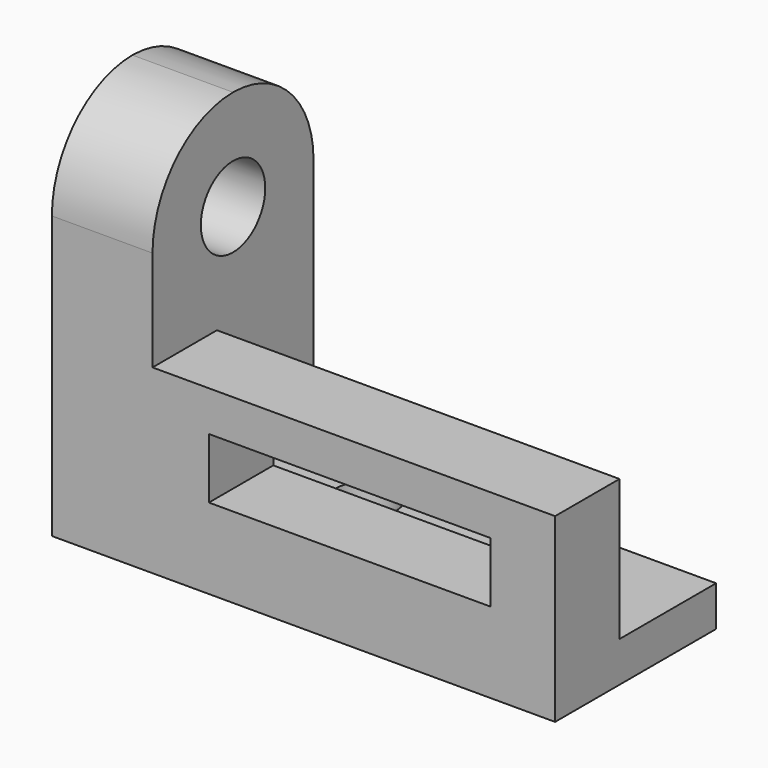
from build123d import *

# Parameters (mm, degrees)
F0_R     = 10
F1_DEPTH = 25
F3_DEPTH = 100
F4_W     = 70
F4_H     = 15
F5_DEPTH = 20
F6_R     = 7.5
F7_DEPTH = 10


with BuildPart() as f1:
    # F0 (on Right) → F1 (new body)
    with BuildSketch(Plane.YZ):
        with BuildLine():
            Line((0, 70), (0, 0))
            Line((0, 0), (50, 0))
            Line((50, 0), (50, 70))
            ThreePointArc((50, 70), (42.67767, 87.67767), (25, 95))
            ThreePointArc((25, 95), (7.32233, 87.67767), (0, 70))
        make_face()
        with Locations((25, 70)):
            Circle(F0_R, mode=Mode.SUBTRACT)
    extrude(amount=F1_DEPTH)

    # F2 (on face) → F3 (join)
    with BuildSketch(Plane.YZ.offset(25)):
        Polygon((0, 45), (0, 0), (50, 0), (50, 10), (20, 10), (20, 45), align=None)
    extrude(amount=F3_DEPTH)

    # F4 (on face) → F5 (cut)
    with BuildSketch(Plane(origin=(0, 20, 0), x_dir=(-1, 0, 0), z_dir=(0, 1, 0))):
        with Locations((-74, 27.5)):
            Rectangle(F4_W, F4_H)
    extrude(amount=-F5_DEPTH, mode=Mode.SUBTRACT)

    # F6 (on face) → F7 (cut)
    with BuildSketch(Plane.XY.offset(10)):
        with Locations((100, 35)):
            Circle(F6_R)
        with Locations((50, 35)):
            Circle(F6_R)
    extrude(amount=-F7_DEPTH, mode=Mode.SUBTRACT)


solid = f1.part
